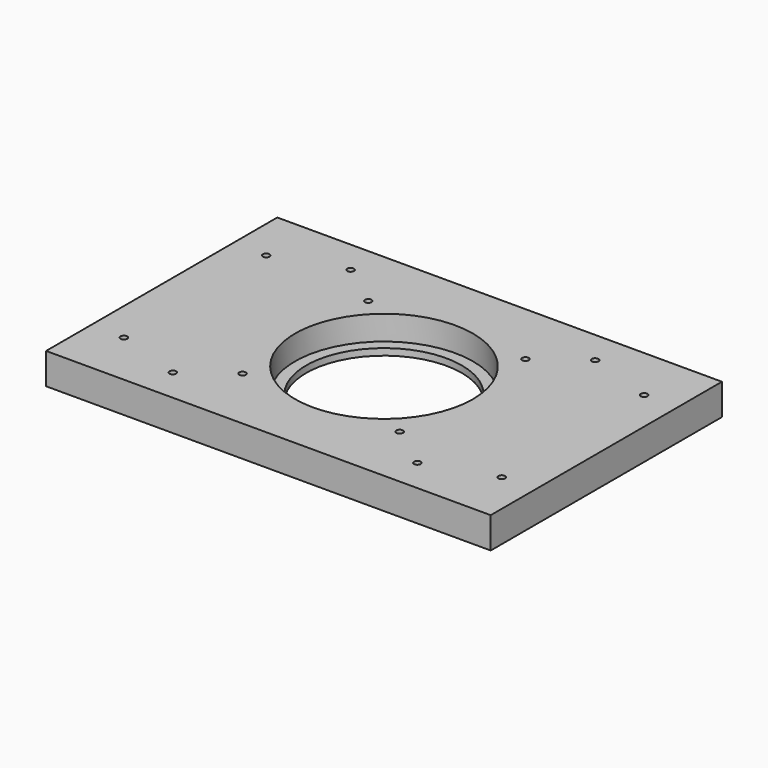
from build123d import *

# Parameters (mm, degrees)
SKETCH_W     = 200
SKETCH_H     = 130
SKETCH_R     = 35
SKETCH_R_2   = 1.5
PAD_DEPTH    = 14
SKETCH001_R  = 40
POCKET_DEPTH = 11


with BuildPart() as part:
    # Sketch → Pad (new body)
    with BuildSketch(Plane.XY):
        with Locations((100, 65)):
            Rectangle(SKETCH_W, SKETCH_H)
        with Locations((100, 65)):
            Circle(SKETCH_R, mode=Mode.SUBTRACT)
        with Locations((45, 115)):
            Circle(SKETCH_R_2, mode=Mode.SUBTRACT)
        with Locations((45, 15)):
            Circle(SKETCH_R_2, mode=Mode.SUBTRACT)
        with Locations((155, 115)):
            Circle(SKETCH_R_2, mode=Mode.SUBTRACT)
        with Locations((155, 15)):
            Circle(SKETCH_R_2, mode=Mode.SUBTRACT)
        with Locations((15, 105)):
            Circle(SKETCH_R_2, mode=Mode.SUBTRACT)
        with Locations((15, 25)):
            Circle(SKETCH_R_2, mode=Mode.SUBTRACT)
        with Locations((185, 105)):
            Circle(SKETCH_R_2, mode=Mode.SUBTRACT)
        with Locations((185, 25)):
            Circle(SKETCH_R_2, mode=Mode.SUBTRACT)
        with Locations((135.355339, 100.355339)):
            Circle(SKETCH_R_2, mode=Mode.SUBTRACT)
        with Locations((64.644661, 29.644661)):
            Circle(SKETCH_R_2, mode=Mode.SUBTRACT)
        with Locations((64.64463, 100.35537)):
            Circle(SKETCH_R_2, mode=Mode.SUBTRACT)
        with Locations((135.355307, 29.644693)):
            Circle(SKETCH_R_2, mode=Mode.SUBTRACT)
    extrude(amount=PAD_DEPTH)

    # Sketch001 (on Face19 of Pad) → Pocket (cut)
    with BuildSketch(Plane.XY.offset(14)):
        with Locations((100, 65)):
            Circle(SKETCH001_R)
    extrude(amount=-POCKET_DEPTH, mode=Mode.SUBTRACT)


solid = part.part
